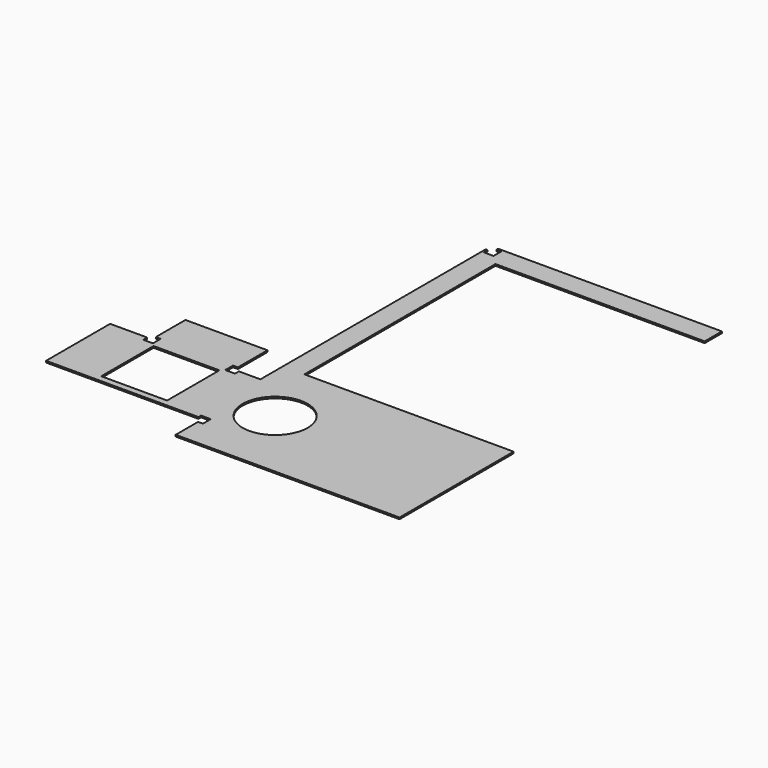
from build123d import *

# Parameters (mm, degrees)
F0_W     = 5.25
F0_H     = 50.25
F0_W_2   = 137.75
F0_H_2   = 20.25
F0_W_3   = 50.5
F0_H_3   = 5.25
F0_H_4   = 4.25
F0_W_4   = 20.5
F0_H_5   = 20.5
F0_W_5   = 4.25
F0_H_6   = 173.25
F0_W_6   = 40.5
F0_H_7   = 40.25
F0_R     = 20
F1_DEPTH = 1
F2_W     = 3
F2_H     = 1
F2_W_2   = 93.75
F2_W_3   = 6
F2_H_2   = 6
F3_DEPTH = 25


with BuildPart() as f1:
    # F0 (on Top) → F1 (new body)
    with BuildSketch(Plane.XY):
        with Locations((-231.875, -87.375)):
            Rectangle(F0_W, F0_H)
        with Locations((-68.875, -122.625)):
            Rectangle(F0_W_2, F0_H_2)
        with Locations((-183.5, -39.125)):
            Rectangle(F0_W_3, F0_H_3)
        with Locations((-68.875, 113.125)):
            Rectangle(F0_W_2, F0_H_4)
        with Locations((-219, -87.375)):
            Rectangle(F0_W_4, F0_H)
        with Locations((-183.5, -52)):
            Rectangle(F0_W_3, F0_H_5)
        with Locations((-139.875, 24.375)):
            Rectangle(F0_W_5, F0_H_6)
        Polygon((-137.75, -112.5), (-137.75, -62.25), (-142, -62.25), (-158.25, -62.25), (-158.25, -112.5), align=None)
        with Locations((-183.5, -87.375)):
            Rectangle(F0_W_3, F0_H)
        with Locations((-183.5, -87.375)):
            Rectangle(F0_W_6, F0_H_7, mode=Mode.SUBTRACT)
        Polygon((0, 102), (0, 111), (-137.75, 111), (-137.75, -62.25), (-137.75, -112.5), (0, -112.5), (0, -45), (-128.75, -45), (-128.75, 102), align=None)
        with Locations((-112.75, -87.5)):
            Circle(F0_R, mode=Mode.SUBTRACT)
    extrude(amount=F1_DEPTH)

    # F2 (on face) → F3 (cut)
    with BuildSketch(Plane.XY.offset(1)):
        Polygon((-134.75, -115.5), (-134.75, -109.5), (-140.75, -109.5), (-140.75, -111.5), (-137.75, -111.5), (-137.75, -112.5), (-140.75, -112.5), (-140.75, -115.5), align=None)
        with Locations((-139.25, -112)):
            Rectangle(F2_W, F2_H)
        with Locations((-187.625, -112)):
            Rectangle(F2_W_2, F2_H)
        with Locations((-158.25, -62.25)):
            Rectangle(F2_W_3, F2_H_2)
        with Locations((-208.75, -62.25)):
            Rectangle(F2_W_3, F2_H_2)
        with Locations((-137.75, 111)):
            Rectangle(F2_W_3, F2_H_2)
    extrude(amount=-F3_DEPTH, mode=Mode.SUBTRACT)


solid = f1.part
